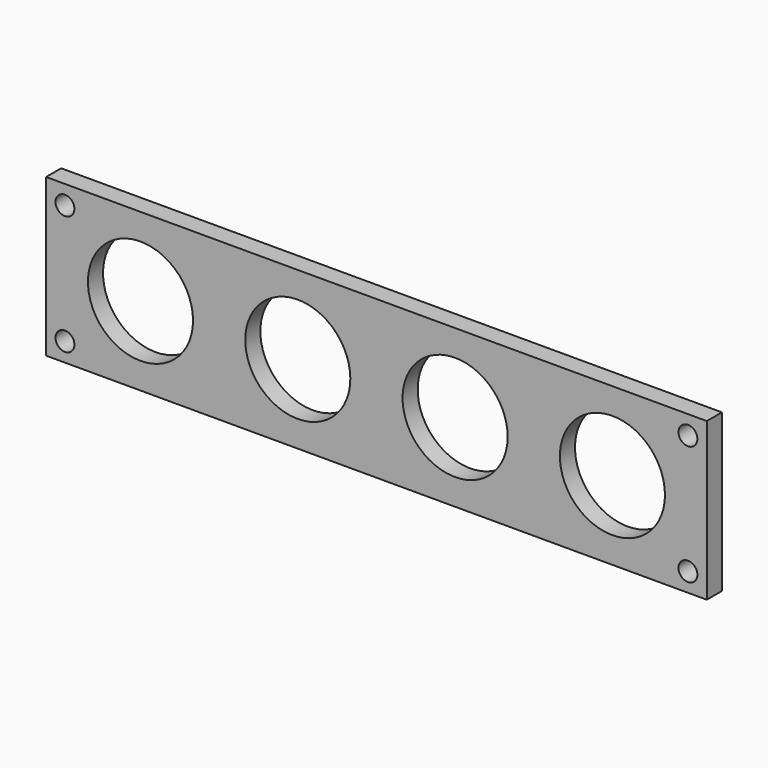
from build123d import *

# Parameters (mm, degrees)
F0_R     = 1.5
F0_R_2   = 8.35
F1_DEPTH = 3


with BuildPart() as f1:
    # F0 (on Front) → F1 (new body)
    with BuildSketch(Plane.XZ):
        Polygon((-48.303484, 6.842105), (-48.303484, -5.657895), (56.696516, -5.657895), (56.696516, 6.842105), (56.696516, 19.342105), (-48.303484, 19.342105), align=None)
        with Locations((-45.303484, -2.657895)):
            Circle(F0_R, mode=Mode.SUBTRACT)
        with Locations((-33.303484, 6.842105)):
            Circle(F0_R_2, mode=Mode.SUBTRACT)
        with Locations((-8.303484, 6.842105)):
            Circle(F0_R_2, mode=Mode.SUBTRACT)
        with Locations((53.696516, -2.657895)):
            Circle(F0_R, mode=Mode.SUBTRACT)
        with Locations((16.696516, 6.842105)):
            Circle(F0_R_2, mode=Mode.SUBTRACT)
        with Locations((41.696516, 6.842105)):
            Circle(F0_R_2, mode=Mode.SUBTRACT)
        with Locations((-45.303484, 16.342105)):
            Circle(F0_R, mode=Mode.SUBTRACT)
        with Locations((53.696516, 16.342105)):
            Circle(F0_R, mode=Mode.SUBTRACT)
    extrude(amount=F1_DEPTH)


solid = f1.part
